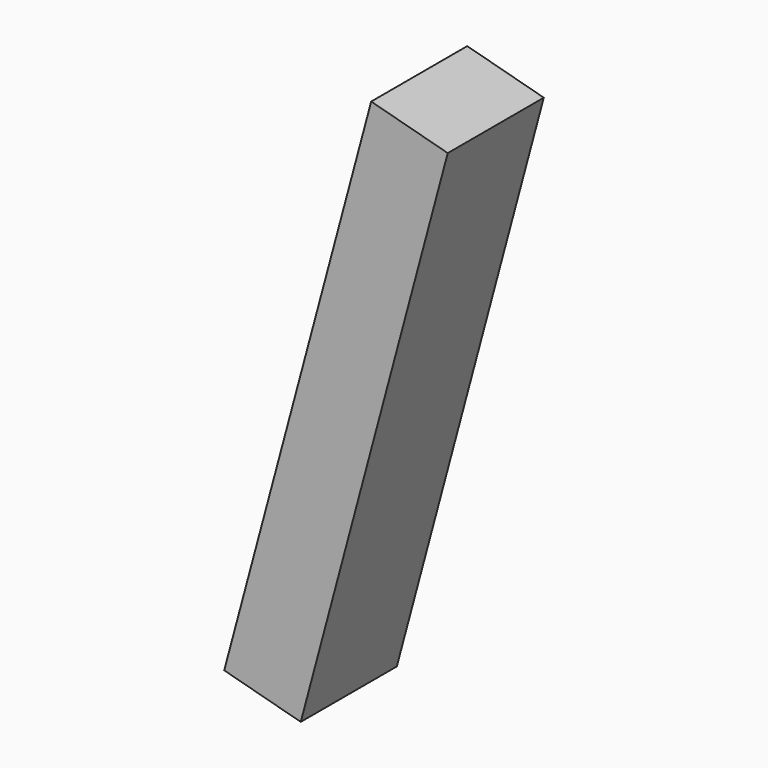
from build123d import *

# Parameters (mm, degrees)
F0_W     = 1.6764
F0_H     = 12.0142
F1_DEPTH = 2.54
F2_ANGLE = 15


with BuildPart() as f1:
    # F0 (on Front) → F1 (new body)
    with BuildSketch(Plane.XZ):
        Rectangle(F0_W, F0_H)
    extrude(amount=F1_DEPTH)


with BuildPart() as f1_1:
    # F2: moved
    add(f1.part.rotate(Axis((0.8382, -1.27, -6.0071), (0, 1, 0)), F2_ANGLE))


solid = f1_1.part
